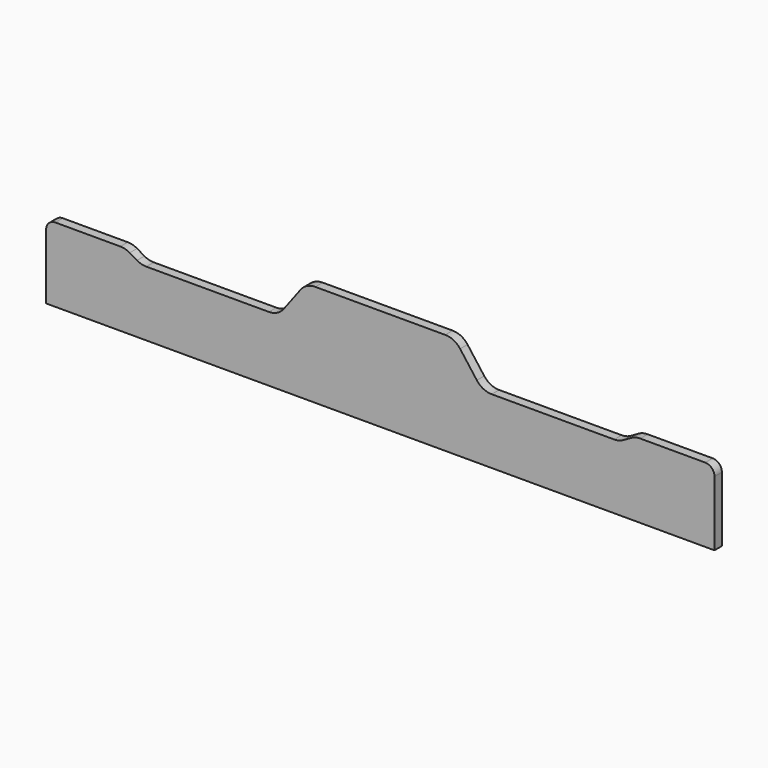
from build123d import *

# Parameters (mm, degrees)
F1_DEPTH = 5


with BuildPart() as f1:
    # F0 (on Front) → F1 (new body)
    with BuildSketch(Plane.XZ):
        with BuildLine():
            Line((0, 35), (0, 0))
            Line((0, 0), (180, 0))
            Line((180, 0), (360, 0))
            Line((360, 0), (360, 35))
            ThreePointArc((360, 35), (358.535534, 38.535534), (355, 40))
            Line((355, 40), (320, 40))
            ThreePointArc((320, 40), (317.401719, 39.656549), (314.981915, 38.649788))
            Line((314.981915, 38.649788), (311.018085, 36.350212))
            ThreePointArc((311.018085, 36.350212), (308.598281, 35.343451), (306, 35))
            Line((306, 35), (240, 35))
            ThreePointArc((240, 35), (235.527864, 36.055728), (232, 39))
            Line((232, 39), (223, 51))
            ThreePointArc((223, 51), (219.472136, 53.944272), (215, 55))
            Line((215, 55), (180, 55))
            Line((180, 55), (145, 55))
            ThreePointArc((145, 55), (140.527864, 53.944272), (137, 51))
            Line((137, 51), (128, 39))
            ThreePointArc((128, 39), (124.472136, 36.055728), (120, 35))
            Line((120, 35), (54, 35))
            ThreePointArc((54, 35), (51.401719, 35.343451), (48.981915, 36.350212))
            Line((48.981915, 36.350212), (45.018085, 38.649788))
            ThreePointArc((45.018085, 38.649788), (42.598281, 39.656549), (40, 40))
            Line((40, 40), (5, 40))
            ThreePointArc((5, 40), (1.464466, 38.535534), (0, 35))
        make_face()
    extrude(amount=F1_DEPTH)


solid = f1.part
